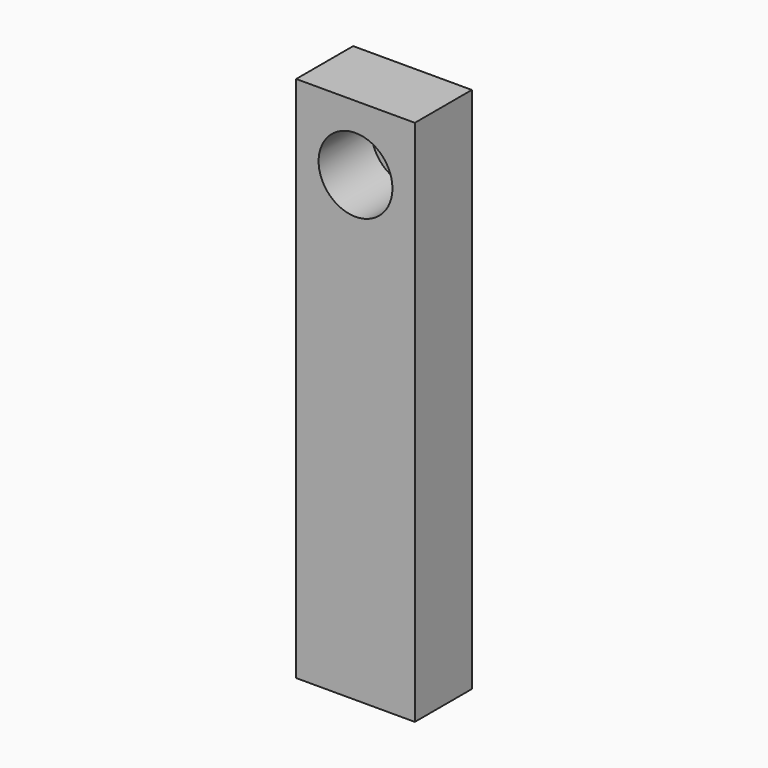
from build123d import *

# Parameters (mm, degrees)
F0_W     = 45
F0_H     = 27
F1_DEPTH = 200
F2_R     = 14
F3_DEPTH = 25


with BuildPart() as f1:
    # F0 (on Top) → F1 (new body)
    with BuildSketch(Plane.XY):
        Rectangle(F0_W, F0_H)
    extrude(amount=F1_DEPTH)

    # F2 (on face) → F3 (cut)
    with BuildSketch(Plane.XZ.offset(13.5)):
        with Locations((0, 175.308123)):
            Circle(F2_R)
    extrude(amount=-F3_DEPTH, mode=Mode.SUBTRACT)


solid = f1.part
